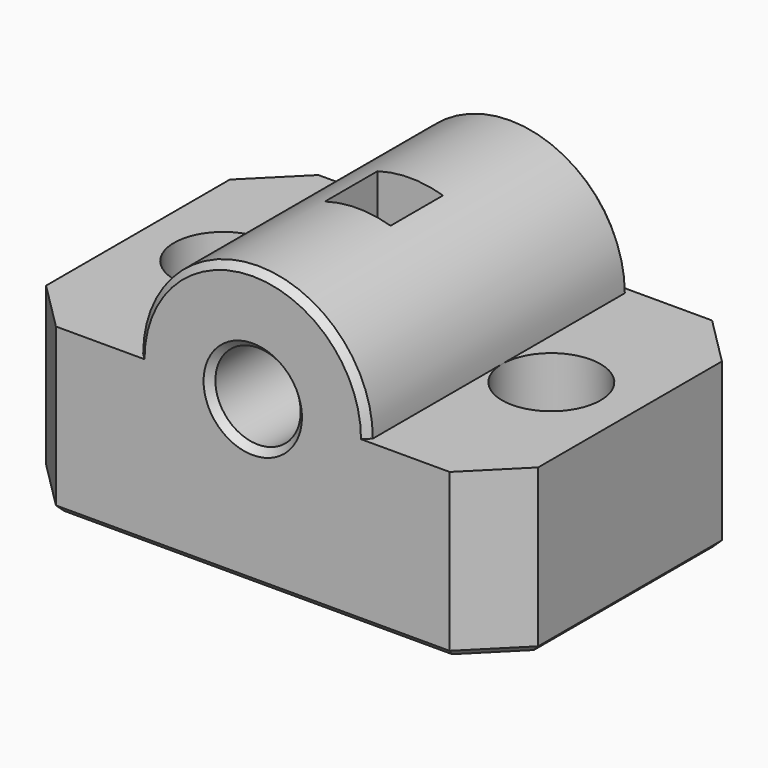
from build123d import *

# Parameters (mm, degrees)
CYLINDER038_R     = 2.6
CYLINDER038_DEPTH = 20
BOX020_W          = 4
BOX020_H          = 4
BOX020_DEPTH      = 10
CYLINDER041_R     = 3
CYLINDER041_DEPTH = 4
CYLINDER037_R     = 7
CYLINDER037_DEPTH = 20
CHAMFER020_SIZE   = 0.4
CYLINDER036_R     = 3
CYLINDER036_DEPTH = 4
CYLINDER035_R     = 3
CYLINDER035_DEPTH = 4
CYLINDER039_R     = 1.65
CYLINDER039_DEPTH = 33
CYLINDER040_R     = 1.65
CYLINDER040_DEPTH = 33
BOX019_W          = 30
BOX019_H          = 20
BOX019_DEPTH      = 10
CHAMFER019_SIZE   = 3
CHAMFER021_SIZE   = 0.4
CHAMFER034_SIZE   = 0.4


with BuildPart() as cylinder038:
    # Cylinder038 → Cylinder038 (new body)
    with BuildSketch(Plane(origin=(60, 18, 10), x_dir=(1, 0, 0), z_dir=(0, 1, 0))):
        Circle(CYLINDER038_R)
    extrude(amount=CYLINDER038_DEPTH)


with BuildPart() as cube019:
    # Box020 → Box020 (new body)
    with BuildSketch(Plane(origin=(58, 26, 10), x_dir=(1, 0, 0), z_dir=(0, 0, 1))):
        with Locations((2, 2)):
            Rectangle(BOX020_W, BOX020_H)
    extrude(amount=BOX020_DEPTH)


with BuildPart() as cut:
    # Cylinder041 → Cylinder041 (new body)
    with BuildSketch(Plane(origin=(60, 26.25, 10), x_dir=(1, 0, 0), z_dir=(0, 1, 0))):
        Circle(CYLINDER041_R)
    extrude(amount=CYLINDER041_DEPTH)


with BuildPart() as chamfer020:
    # Cylinder037 → Cylinder037 (new body)
    with BuildSketch(Plane(origin=(60, 18, 10), x_dir=(1, 0, 0), z_dir=(0, 1, 0))):
        Circle(CYLINDER037_R)
    extrude(amount=CYLINDER037_DEPTH)

    # Chamfer020
    chamfer020_edges = [chamfer020.edges().sort_by_distance(p)[0] for p in [
        (53, 38, 10),
        (53, 18, 10),
    ]]
    chamfer(chamfer020_edges, length=CHAMFER020_SIZE)


with BuildPart() as cylinder036:
    # Cylinder036 → Cylinder036 (new body)
    with BuildSketch(Plane(origin=(70, 28.25, 0), x_dir=(1, 0, 0), z_dir=(0, 0, 1))):
        Circle(CYLINDER036_R)
    extrude(amount=CYLINDER036_DEPTH)


with BuildPart() as fusion011:
    # Cylinder035 → Cylinder035 (new body)
    with BuildSketch(Plane(origin=(50, 28.25, 0), x_dir=(1, 0, 0), z_dir=(0, 0, 1))):
        Circle(CYLINDER035_R)
    extrude(amount=CYLINDER035_DEPTH)

    # Fusion011: union Cylinder036
    add(cylinder036.part)


with BuildPart() as fusion011_1:
    # Fusion011 placement: moved
    add(fusion011.part.moved(Location((0, 0, 6))))


with BuildPart() as cylinder039:
    # Cylinder039 → Cylinder039 (new body)
    with BuildSketch(Plane(origin=(50, 28.25, 0), x_dir=(1, 0, 0), z_dir=(0, 0, 1))):
        Circle(CYLINDER039_R)
    extrude(amount=CYLINDER039_DEPTH)


with BuildPart() as fusion010:
    # Cylinder040 → Cylinder040 (new body)
    with BuildSketch(Plane(origin=(70, 28.25, 0), x_dir=(1, 0, 0), z_dir=(0, 0, 1))):
        Circle(CYLINDER040_R)
    extrude(amount=CYLINDER040_DEPTH)

    # Fusion010: union Cylinder039
    add(cylinder039.part)


with BuildPart() as node_r1:
    # Box019 → Box019 (new body)
    with BuildSketch(Plane(origin=(45, 18, 0), x_dir=(1, 0, 0), z_dir=(0, 0, 1))):
        with Locations((15, 10)):
            Rectangle(BOX019_W, BOX019_H)
    extrude(amount=BOX019_DEPTH)

    # Chamfer019
    chamfer019_edges = [node_r1.edges().sort_by_distance(p)[0] for p in [
        (45, 18, 5),
        (45, 38, 5),
        (75, 18, 5),
        (75, 38, 5),
    ]]
    chamfer(chamfer019_edges, length=CHAMFER019_SIZE)

    # Cut024: cut Fusion010
    add(fusion010.part, mode=Mode.SUBTRACT)

    # Chamfer021
    chamfer021_edges = [node_r1.edges().sort_by_distance(p)[0] for p in [
        (45, 28, 0),
        (46.5, 19.5, 0),
        (46.5, 36.5, 0),
        (60, 18, 0),
        (60, 38, 0),
        (73.5, 19.5, 0),
        (73.5, 36.5, 0),
        (75, 28, 0),
        (68.35, 28.25, 0),
        (48.35, 28.25, 0),
    ]]
    chamfer(chamfer021_edges, length=CHAMFER021_SIZE)

    # Cut025: cut Fusion011
    add(fusion011_1.part, mode=Mode.SUBTRACT)

    # Fusion012: union Chamfer020
    add(chamfer020.part)

    # Cut026: cut cut
    add(cut.part, mode=Mode.SUBTRACT)

    # Cut027: cut Cube019
    add(cube019.part, mode=Mode.SUBTRACT)

    # Cut043: cut Cylinder038
    add(cylinder038.part, mode=Mode.SUBTRACT)

    # Chamfer034
    chamfer034_edges = [node_r1.edges().sort_by_distance(p)[0] for p in [
        (60, 18, 7.4),
        (60, 38, 7.4),
        (60, 38, 12.6),
        (60, 18, 12.6),
    ]]
    chamfer(chamfer034_edges, length=CHAMFER034_SIZE)


solid = node_r1.part
